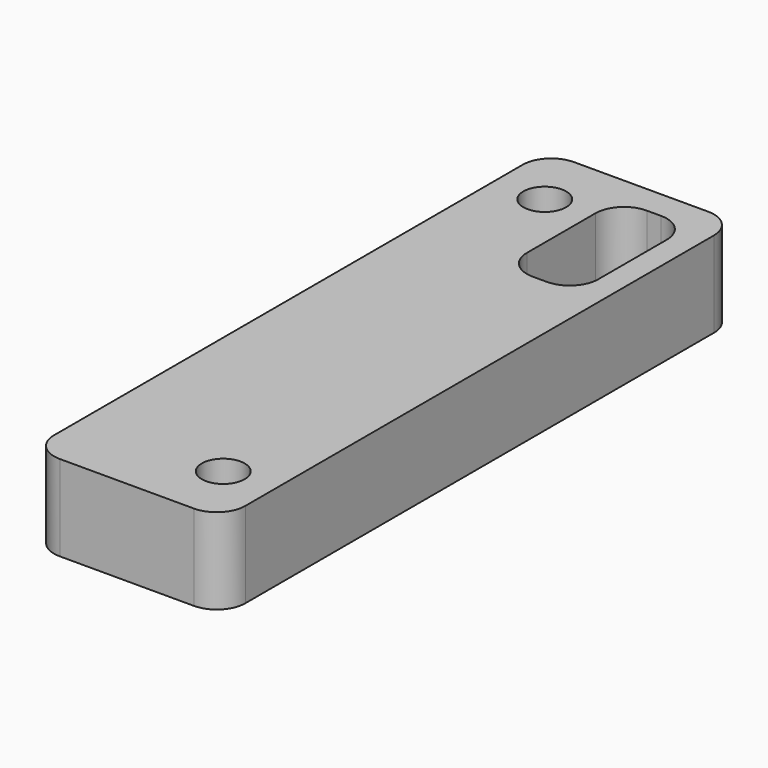
from build123d import *

# Parameters (mm, degrees)
F0_R     = 3.81
F1_DEPTH = 15.24


with BuildPart() as f1:
    # F0 (on Top) → F1 (new body)
    with BuildSketch(Plane.XY):
        with BuildLine():
            ThreePointArc((0, 5.08), (1.487898, 1.487898), (5.08, 0))
            Line((5.08, 0), (28.9306, 0))
            ThreePointArc((28.9306, 0), (32.522702, 1.487898), (34.0106, 5.08))
            Line((34.0106, 5.08), (34.0106, 109.22))
            ThreePointArc((34.0106, 109.22), (32.522702, 112.812102), (28.9306, 114.3))
            Line((28.9306, 114.3), (5.08, 114.3))
            ThreePointArc((5.08, 114.3), (1.487898, 112.812102), (0, 109.22))
            Line((0, 109.22), (0, 5.08))
        make_face()
        with Locations((25.1206, 11.2776)):
            Circle(F0_R, mode=Mode.SUBTRACT)
        with Locations((8.89, 103.0224)):
            Circle(F0_R, mode=Mode.SUBTRACT)
        with BuildLine():
            ThreePointArc((17.0053, 104.14), (18.493198, 107.732102), (22.0853, 109.22))
            Line((22.0853, 109.22), (24.6253, 109.22))
            ThreePointArc((24.6253, 109.22), (28.217402, 107.732102), (29.7053, 104.14))
            Line((29.7053, 104.14), (29.7053, 88.9))
            ThreePointArc((29.7053, 88.9), (28.217402, 85.307898), (24.6253, 83.82))
            Line((24.6253, 83.82), (22.0853, 83.82))
            ThreePointArc((22.0853, 83.82), (18.493198, 85.307898), (17.0053, 88.9))
            Line((17.0053, 88.9), (17.0053, 104.14))
        make_face(mode=Mode.SUBTRACT)
    extrude(amount=F1_DEPTH)


solid = f1.part
